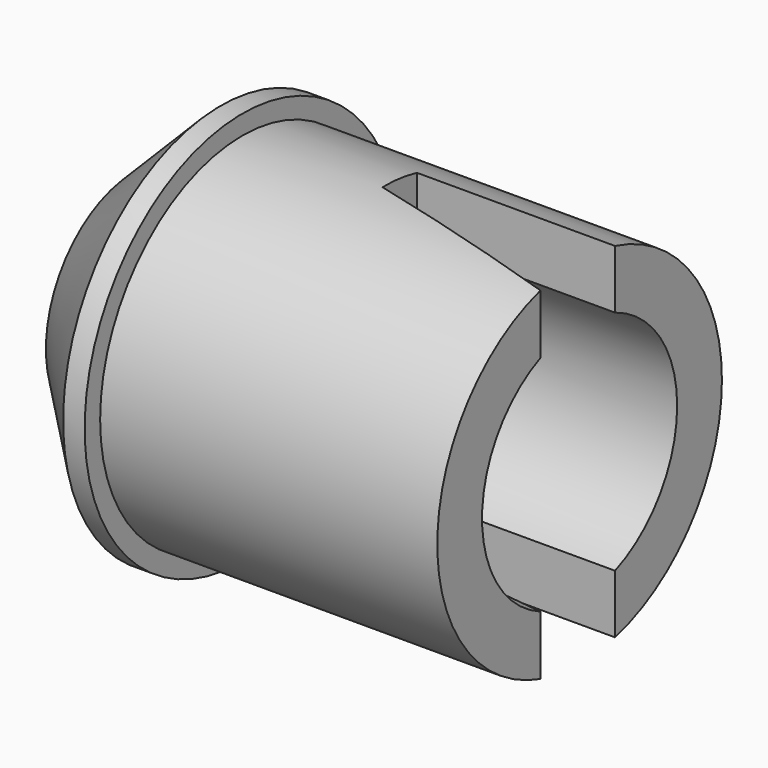
from build123d import *

# Parameters (mm, degrees)
F2_R      = 3.1496
F3_DEPTH  = 5.969
F4_R      = 2.159
F5_DEPTH  = 8.9662
F0_R      = 1.7145
F6_DEPTH  = 3.7592
F8_DEPTH  = 12.7
F1_R      = 3.4925
F9_DEPTH  = 1.905
F10_DEPTH = 2.54
F11_SIZE  = 1.524


with BuildPart() as f3:
    # F2 (on Right) → F3 (new body)
    with BuildSketch(Plane.YZ):
        Circle(F2_R)
    extrude(amount=F3_DEPTH)

    # F4 (on Right) → F5 (cut)
    with BuildSketch(Plane.YZ):
        Circle(F4_R)
    extrude(amount=F5_DEPTH, mode=Mode.SUBTRACT)

    # F0 (on Right) → F6 (cut)
    with BuildSketch(Plane.YZ):
        Circle(F0_R)
    extrude(amount=-F6_DEPTH, mode=Mode.SUBTRACT)

    # F7 (on Top) → F8 (cut, symmetric)
    with BuildSketch(Plane.XY):
        Polygon((6.593515, 0.784034), (2.462917, 0.784034), (2.47918, 0), (6.593515, -1.02107), align=None)
    extrude(amount=F8_DEPTH, both=True, mode=Mode.SUBTRACT)

    # F1 (on Right) → F9 (join)
    with BuildSketch(Plane.YZ):
        Circle(F1_R)
    extrude(amount=-F9_DEPTH)

    # F0 (on Right) → F10 (cut)
    with BuildSketch(Plane.YZ):
        Circle(F0_R)
    extrude(amount=-F10_DEPTH, mode=Mode.SUBTRACT)

    # F11
    f11_edges = [f3.edges().sort_by_distance(p)[0] for p in [
        (-1.905, -3.4925, 0),
    ]]
    chamfer(f11_edges, length=F11_SIZE)


solid = f3.part
